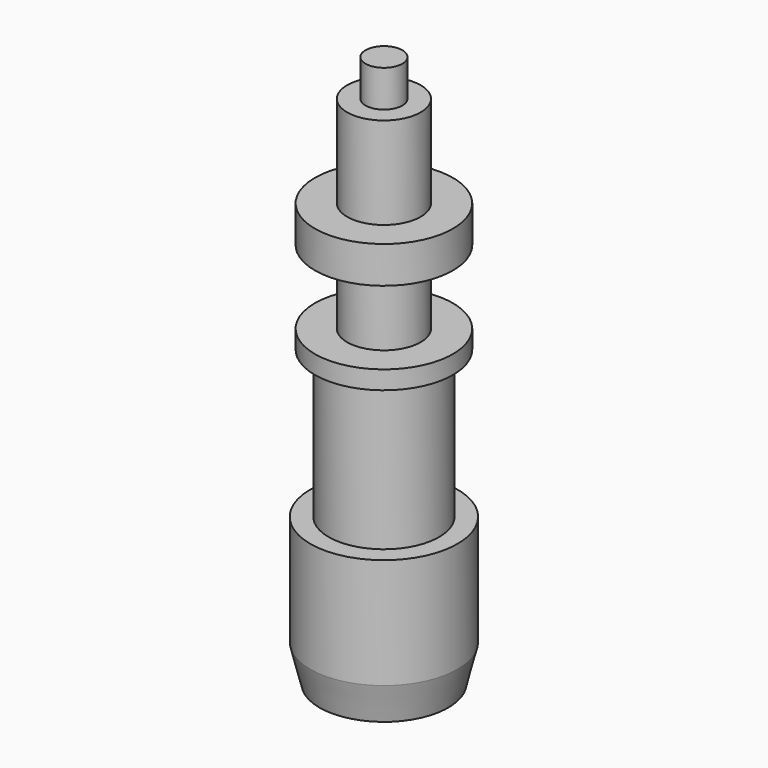
from build123d import *

# Parameters (mm, degrees)
CYLINDER082_R             = 2
CYLINDER082_DEPTH         = 28
CYLINDER083_R             = 3.75
CYLINDER083_DEPTH         = 2
CYLINDER084_R             = 3.75
CYLINDER084_DEPTH         = 1
CYLINDER085_R             = 3
CYLINDER085_DEPTH         = 8
CYLINDER086_R             = 4
CYLINDER086_DEPTH         = 6
CYLINDER087_R             = 1
CYLINDER087_DEPTH         = 2
FUSION026_PLACEMENT_ANGLE = 180


with BuildPart() as cylinder082:
    # Cylinder082 → Cylinder082 (new body)
    with BuildSketch(Plane.XY):
        Circle(CYLINDER082_R)
    extrude(amount=CYLINDER082_DEPTH)


with BuildPart() as cylinder083:
    # Cylinder083 → Cylinder083 (new body)
    with BuildSketch(Plane.XY.offset(5)):
        Circle(CYLINDER083_R)
    extrude(amount=CYLINDER083_DEPTH)


with BuildPart() as cylinder084:
    # Cylinder084 → Cylinder084 (new body)
    with BuildSketch(Plane.XY.offset(11)):
        Circle(CYLINDER084_R)
    extrude(amount=CYLINDER084_DEPTH)


with BuildPart() as cylinder085:
    # Cylinder085 → Cylinder085 (new body)
    with BuildSketch(Plane.XY.offset(12)):
        Circle(CYLINDER085_R)
    extrude(amount=CYLINDER085_DEPTH)


with BuildPart() as cylinder086:
    # Cylinder086 → Cylinder086 (new body)
    with BuildSketch(Plane.XY.offset(20)):
        Circle(CYLINDER086_R)
    extrude(amount=CYLINDER086_DEPTH)


with BuildPart() as fusion025:
    # Cone001 → Cone001 (revolve)
    with BuildSketch(Plane(origin=(0, 0, 26), x_dir=(1, 0, 0), z_dir=(0, -1, 0))):
        Polygon((0, 0), (4, 0), (3.5, 2), (0, 2), align=None)
    revolve(axis=Axis((0, 0, 26), (0, 0, 1)))

    # Fusion025: union Cylinder082, Cylinder083, Cylinder084, Cylinder085, Cylinder086
    add(cylinder082.part)
    add(cylinder083.part)
    add(cylinder084.part)
    add(cylinder085.part)
    add(cylinder086.part)


with BuildPart() as obj1:
    # Cylinder087 → Cylinder087 (new body)
    with BuildSketch(Plane.XY.offset(-2)):
        Circle(CYLINDER087_R)
    extrude(amount=CYLINDER087_DEPTH)

    # Fusion026: union Fusion025
    add(fusion025.part)


with BuildPart() as obj1_1:
    # Fusion026 placement: moved
    add(obj1.part.moved(Location((0, -289, -301.5))).rotate(Axis((0, -289, -301.5), (0, -1, 0)), FUSION026_PLACEMENT_ANGLE))


solid = obj1_1.part
